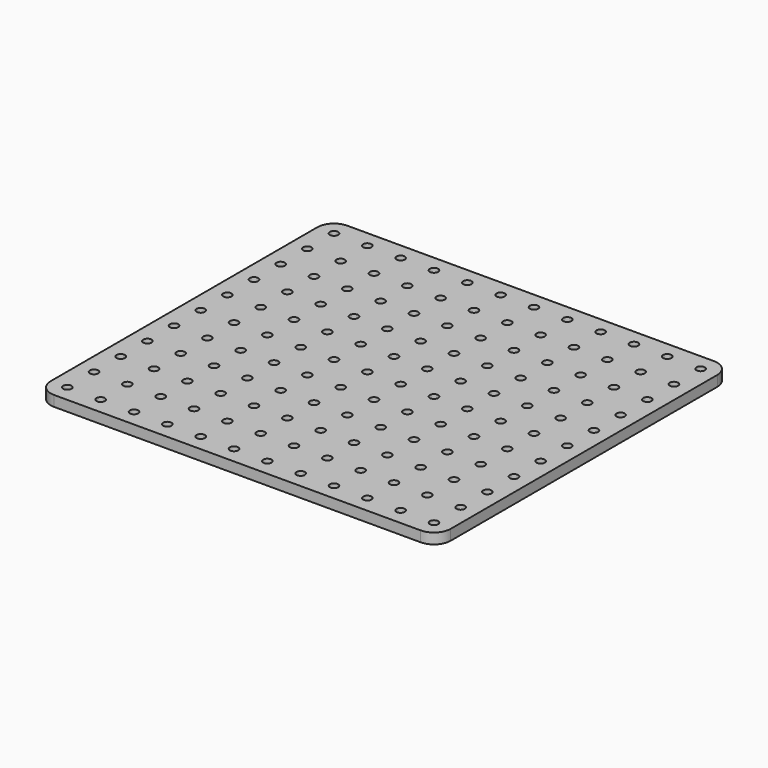
from build123d import *

# Parameters (mm, degrees)
SKETCH_R  = 3.175
PAD_DEPTH = 8


with BuildPart() as part:
    # Sketch → Pad (new body)
    with BuildSketch(Plane.XY):
        with BuildLine():
            Line((-139.7, 139.7), (139.7, 139.7))
            ThreePointArc((152.4, 127), (148.680256, 135.980256), (139.7, 139.7))
            Line((152.4, 127), (152.4, -127))
            ThreePointArc((139.7, -139.7), (148.680256, -135.980256), (152.4, -127))
            Line((139.7, -139.7), (-139.7, -139.7))
            ThreePointArc((-152.4, -127), (-148.680256, -135.980256), (-139.7, -139.7))
            Line((-152.4, -127), (-152.4, 127))
            ThreePointArc((-139.7, 139.7), (-148.680256, 135.980256), (-152.4, 127))
        make_face()
        with Locations((-139.7, 127)):
            Circle(SKETCH_R, mode=Mode.SUBTRACT)
        with Locations((-114.3, 127)):
            Circle(SKETCH_R, mode=Mode.SUBTRACT)
        with Locations((-88.9, 127)):
            Circle(SKETCH_R, mode=Mode.SUBTRACT)
        with Locations((-63.5, 127)):
            Circle(SKETCH_R, mode=Mode.SUBTRACT)
        with Locations((-38.1, 127)):
            Circle(SKETCH_R, mode=Mode.SUBTRACT)
        with Locations((-12.7, 127)):
            Circle(SKETCH_R, mode=Mode.SUBTRACT)
        with Locations((12.7, 127)):
            Circle(SKETCH_R, mode=Mode.SUBTRACT)
        with Locations((38.1, 127)):
            Circle(SKETCH_R, mode=Mode.SUBTRACT)
        with Locations((63.5, 127)):
            Circle(SKETCH_R, mode=Mode.SUBTRACT)
        with Locations((88.9, 127)):
            Circle(SKETCH_R, mode=Mode.SUBTRACT)
        with Locations((114.3, 127)):
            Circle(SKETCH_R, mode=Mode.SUBTRACT)
        with Locations((139.7, 127)):
            Circle(SKETCH_R, mode=Mode.SUBTRACT)
        with Locations((-139.7, 101.6)):
            Circle(SKETCH_R, mode=Mode.SUBTRACT)
        with Locations((-114.3, 101.6)):
            Circle(SKETCH_R, mode=Mode.SUBTRACT)
        with Locations((-88.9, 101.6)):
            Circle(SKETCH_R, mode=Mode.SUBTRACT)
        with Locations((-63.5, 101.6)):
            Circle(SKETCH_R, mode=Mode.SUBTRACT)
        with Locations((-38.1, 101.6)):
            Circle(SKETCH_R, mode=Mode.SUBTRACT)
        with Locations((-12.7, 101.6)):
            Circle(SKETCH_R, mode=Mode.SUBTRACT)
        with Locations((12.7, 101.6)):
            Circle(SKETCH_R, mode=Mode.SUBTRACT)
        with Locations((38.1, 101.6)):
            Circle(SKETCH_R, mode=Mode.SUBTRACT)
        with Locations((63.5, 101.6)):
            Circle(SKETCH_R, mode=Mode.SUBTRACT)
        with Locations((88.9, 101.6)):
            Circle(SKETCH_R, mode=Mode.SUBTRACT)
        with Locations((114.3, 101.6)):
            Circle(SKETCH_R, mode=Mode.SUBTRACT)
        with Locations((139.7, 101.6)):
            Circle(SKETCH_R, mode=Mode.SUBTRACT)
        with Locations((-139.7, 76.2)):
            Circle(SKETCH_R, mode=Mode.SUBTRACT)
        with Locations((-114.3, 76.2)):
            Circle(SKETCH_R, mode=Mode.SUBTRACT)
        with Locations((-88.9, 76.2)):
            Circle(SKETCH_R, mode=Mode.SUBTRACT)
        with Locations((-63.5, 76.2)):
            Circle(SKETCH_R, mode=Mode.SUBTRACT)
        with Locations((-38.1, 76.2)):
            Circle(SKETCH_R, mode=Mode.SUBTRACT)
        with Locations((-12.7, 76.2)):
            Circle(SKETCH_R, mode=Mode.SUBTRACT)
        with Locations((12.7, 76.2)):
            Circle(SKETCH_R, mode=Mode.SUBTRACT)
        with Locations((38.1, 76.2)):
            Circle(SKETCH_R, mode=Mode.SUBTRACT)
        with Locations((63.5, 76.2)):
            Circle(SKETCH_R, mode=Mode.SUBTRACT)
        with Locations((88.9, 76.2)):
            Circle(SKETCH_R, mode=Mode.SUBTRACT)
        with Locations((114.3, 76.2)):
            Circle(SKETCH_R, mode=Mode.SUBTRACT)
        with Locations((139.7, 76.2)):
            Circle(SKETCH_R, mode=Mode.SUBTRACT)
        with Locations((-139.7, 50.8)):
            Circle(SKETCH_R, mode=Mode.SUBTRACT)
        with Locations((-114.3, 50.8)):
            Circle(SKETCH_R, mode=Mode.SUBTRACT)
        with Locations((-88.9, 50.8)):
            Circle(SKETCH_R, mode=Mode.SUBTRACT)
        with Locations((-63.5, 50.8)):
            Circle(SKETCH_R, mode=Mode.SUBTRACT)
        with Locations((-38.1, 50.8)):
            Circle(SKETCH_R, mode=Mode.SUBTRACT)
        with Locations((-12.7, 50.8)):
            Circle(SKETCH_R, mode=Mode.SUBTRACT)
        with Locations((12.7, 50.8)):
            Circle(SKETCH_R, mode=Mode.SUBTRACT)
        with Locations((38.1, 50.8)):
            Circle(SKETCH_R, mode=Mode.SUBTRACT)
        with Locations((63.5, 50.8)):
            Circle(SKETCH_R, mode=Mode.SUBTRACT)
        with Locations((88.9, 50.8)):
            Circle(SKETCH_R, mode=Mode.SUBTRACT)
        with Locations((114.3, 50.8)):
            Circle(SKETCH_R, mode=Mode.SUBTRACT)
        with Locations((139.7, 50.8)):
            Circle(SKETCH_R, mode=Mode.SUBTRACT)
        with Locations((-139.7, 25.4)):
            Circle(SKETCH_R, mode=Mode.SUBTRACT)
        with Locations((-114.3, 25.4)):
            Circle(SKETCH_R, mode=Mode.SUBTRACT)
        with Locations((-88.9, 25.4)):
            Circle(SKETCH_R, mode=Mode.SUBTRACT)
        with Locations((-63.5, 25.4)):
            Circle(SKETCH_R, mode=Mode.SUBTRACT)
        with Locations((-38.1, 25.4)):
            Circle(SKETCH_R, mode=Mode.SUBTRACT)
        with Locations((-12.7, 25.4)):
            Circle(SKETCH_R, mode=Mode.SUBTRACT)
        with Locations((12.7, 25.4)):
            Circle(SKETCH_R, mode=Mode.SUBTRACT)
        with Locations((38.1, 25.4)):
            Circle(SKETCH_R, mode=Mode.SUBTRACT)
        with Locations((63.5, 25.4)):
            Circle(SKETCH_R, mode=Mode.SUBTRACT)
        with Locations((88.9, 25.4)):
            Circle(SKETCH_R, mode=Mode.SUBTRACT)
        with Locations((114.3, 25.4)):
            Circle(SKETCH_R, mode=Mode.SUBTRACT)
        with Locations((139.7, 25.4)):
            Circle(SKETCH_R, mode=Mode.SUBTRACT)
        with Locations((-139.7, 0)):
            Circle(SKETCH_R, mode=Mode.SUBTRACT)
        with Locations((-114.3, 0)):
            Circle(SKETCH_R, mode=Mode.SUBTRACT)
        with Locations((-88.9, 0)):
            Circle(SKETCH_R, mode=Mode.SUBTRACT)
        with Locations((-63.5, 0)):
            Circle(SKETCH_R, mode=Mode.SUBTRACT)
        with Locations((-38.1, 0)):
            Circle(SKETCH_R, mode=Mode.SUBTRACT)
        with Locations((-12.7, 0)):
            Circle(SKETCH_R, mode=Mode.SUBTRACT)
        with Locations((12.7, 0)):
            Circle(SKETCH_R, mode=Mode.SUBTRACT)
        with Locations((38.1, 0)):
            Circle(SKETCH_R, mode=Mode.SUBTRACT)
        with Locations((63.5, 0)):
            Circle(SKETCH_R, mode=Mode.SUBTRACT)
        with Locations((88.9, 0)):
            Circle(SKETCH_R, mode=Mode.SUBTRACT)
        with Locations((114.3, 0)):
            Circle(SKETCH_R, mode=Mode.SUBTRACT)
        with Locations((139.7, 0)):
            Circle(SKETCH_R, mode=Mode.SUBTRACT)
        with Locations((-139.7, -25.4)):
            Circle(SKETCH_R, mode=Mode.SUBTRACT)
        with Locations((-114.3, -25.4)):
            Circle(SKETCH_R, mode=Mode.SUBTRACT)
        with Locations((-88.9, -25.4)):
            Circle(SKETCH_R, mode=Mode.SUBTRACT)
        with Locations((-63.5, -25.4)):
            Circle(SKETCH_R, mode=Mode.SUBTRACT)
        with Locations((-38.1, -25.4)):
            Circle(SKETCH_R, mode=Mode.SUBTRACT)
        with Locations((-12.7, -25.4)):
            Circle(SKETCH_R, mode=Mode.SUBTRACT)
        with Locations((12.7, -25.4)):
            Circle(SKETCH_R, mode=Mode.SUBTRACT)
        with Locations((38.1, -25.4)):
            Circle(SKETCH_R, mode=Mode.SUBTRACT)
        with Locations((63.5, -25.4)):
            Circle(SKETCH_R, mode=Mode.SUBTRACT)
        with Locations((88.9, -25.4)):
            Circle(SKETCH_R, mode=Mode.SUBTRACT)
        with Locations((114.3, -25.4)):
            Circle(SKETCH_R, mode=Mode.SUBTRACT)
        with Locations((139.7, -25.4)):
            Circle(SKETCH_R, mode=Mode.SUBTRACT)
        with Locations((-139.7, -50.8)):
            Circle(SKETCH_R, mode=Mode.SUBTRACT)
        with Locations((-114.3, -50.8)):
            Circle(SKETCH_R, mode=Mode.SUBTRACT)
        with Locations((-88.9, -50.8)):
            Circle(SKETCH_R, mode=Mode.SUBTRACT)
        with Locations((-63.5, -50.8)):
            Circle(SKETCH_R, mode=Mode.SUBTRACT)
        with Locations((-38.1, -50.8)):
            Circle(SKETCH_R, mode=Mode.SUBTRACT)
        with Locations((-12.7, -50.8)):
            Circle(SKETCH_R, mode=Mode.SUBTRACT)
        with Locations((12.7, -50.8)):
            Circle(SKETCH_R, mode=Mode.SUBTRACT)
        with Locations((38.1, -50.8)):
            Circle(SKETCH_R, mode=Mode.SUBTRACT)
        with Locations((63.5, -50.8)):
            Circle(SKETCH_R, mode=Mode.SUBTRACT)
        with Locations((88.9, -50.8)):
            Circle(SKETCH_R, mode=Mode.SUBTRACT)
        with Locations((114.3, -50.8)):
            Circle(SKETCH_R, mode=Mode.SUBTRACT)
        with Locations((139.7, -50.8)):
            Circle(SKETCH_R, mode=Mode.SUBTRACT)
        with Locations((-139.7, -76.2)):
            Circle(SKETCH_R, mode=Mode.SUBTRACT)
        with Locations((-114.3, -76.2)):
            Circle(SKETCH_R, mode=Mode.SUBTRACT)
        with Locations((-88.9, -76.2)):
            Circle(SKETCH_R, mode=Mode.SUBTRACT)
        with Locations((-63.5, -76.2)):
            Circle(SKETCH_R, mode=Mode.SUBTRACT)
        with Locations((-38.1, -76.2)):
            Circle(SKETCH_R, mode=Mode.SUBTRACT)
        with Locations((-12.7, -76.2)):
            Circle(SKETCH_R, mode=Mode.SUBTRACT)
        with Locations((12.7, -76.2)):
            Circle(SKETCH_R, mode=Mode.SUBTRACT)
        with Locations((38.1, -76.2)):
            Circle(SKETCH_R, mode=Mode.SUBTRACT)
        with Locations((63.5, -76.2)):
            Circle(SKETCH_R, mode=Mode.SUBTRACT)
        with Locations((88.9, -76.2)):
            Circle(SKETCH_R, mode=Mode.SUBTRACT)
        with Locations((114.3, -76.2)):
            Circle(SKETCH_R, mode=Mode.SUBTRACT)
        with Locations((139.7, -76.2)):
            Circle(SKETCH_R, mode=Mode.SUBTRACT)
        with Locations((-139.7, -101.6)):
            Circle(SKETCH_R, mode=Mode.SUBTRACT)
        with Locations((-114.3, -101.6)):
            Circle(SKETCH_R, mode=Mode.SUBTRACT)
        with Locations((-88.9, -101.6)):
            Circle(SKETCH_R, mode=Mode.SUBTRACT)
        with Locations((-63.5, -101.6)):
            Circle(SKETCH_R, mode=Mode.SUBTRACT)
        with Locations((-38.1, -101.6)):
            Circle(SKETCH_R, mode=Mode.SUBTRACT)
        with Locations((-12.7, -101.6)):
            Circle(SKETCH_R, mode=Mode.SUBTRACT)
        with Locations((12.7, -101.6)):
            Circle(SKETCH_R, mode=Mode.SUBTRACT)
        with Locations((38.1, -101.6)):
            Circle(SKETCH_R, mode=Mode.SUBTRACT)
        with Locations((63.5, -101.6)):
            Circle(SKETCH_R, mode=Mode.SUBTRACT)
        with Locations((88.9, -101.6)):
            Circle(SKETCH_R, mode=Mode.SUBTRACT)
        with Locations((114.3, -101.6)):
            Circle(SKETCH_R, mode=Mode.SUBTRACT)
        with Locations((139.7, -101.6)):
            Circle(SKETCH_R, mode=Mode.SUBTRACT)
        with Locations((-139.7, -127)):
            Circle(SKETCH_R, mode=Mode.SUBTRACT)
        with Locations((-114.3, -127)):
            Circle(SKETCH_R, mode=Mode.SUBTRACT)
        with Locations((-88.9, -127)):
            Circle(SKETCH_R, mode=Mode.SUBTRACT)
        with Locations((-63.5, -127)):
            Circle(SKETCH_R, mode=Mode.SUBTRACT)
        with Locations((-38.1, -127)):
            Circle(SKETCH_R, mode=Mode.SUBTRACT)
        with Locations((-12.7, -127)):
            Circle(SKETCH_R, mode=Mode.SUBTRACT)
        with Locations((12.7, -127)):
            Circle(SKETCH_R, mode=Mode.SUBTRACT)
        with Locations((38.1, -127)):
            Circle(SKETCH_R, mode=Mode.SUBTRACT)
        with Locations((63.5, -127)):
            Circle(SKETCH_R, mode=Mode.SUBTRACT)
        with Locations((88.9, -127)):
            Circle(SKETCH_R, mode=Mode.SUBTRACT)
        with Locations((114.3, -127)):
            Circle(SKETCH_R, mode=Mode.SUBTRACT)
        with Locations((139.7, -127)):
            Circle(SKETCH_R, mode=Mode.SUBTRACT)
    extrude(amount=PAD_DEPTH)


solid = part.part
